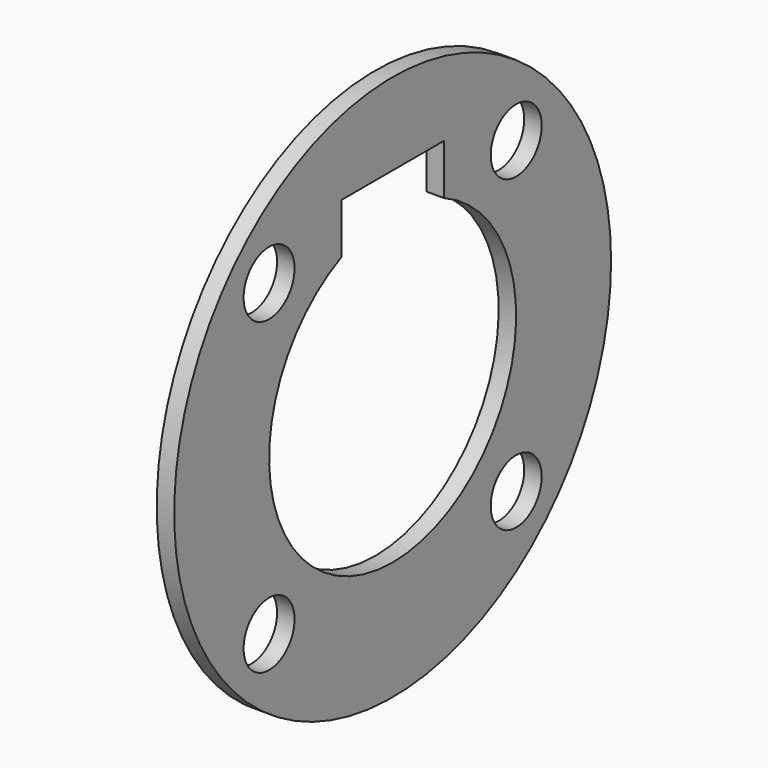
from build123d import *

# Parameters (mm, degrees)
F0_R     = 47.625
F0_R_2   = 5.55625
F1_DEPTH = 3.048


with BuildPart() as f1:
    # F0 (on Right) → F1 (new body)
    with BuildSketch(Plane.YZ):
        Circle(F0_R)
        with Locations((-26.9407683632, -26.9407683632)):
            Circle(F0_R_2, mode=Mode.SUBTRACT)
        with Locations((26.9407683632, -26.9407683632)):
            Circle(F0_R_2, mode=Mode.SUBTRACT)
        with Locations((-26.9407683632, 26.9407683632)):
            Circle(F0_R_2, mode=Mode.SUBTRACT)
        with BuildLine():
            ThreePointArc((11.176, 24.4948729329), (0, -26.924), (-11.176, 24.4948729329))
            Line((-11.176, 24.4948729329), (-11.176, 33.274))
            Line((-11.176, 33.274), (11.176, 33.274))
            Line((11.176, 33.274), (11.176, 24.4948729329))
        make_face(mode=Mode.SUBTRACT)
        with Locations((26.9407683632, 26.9407683632)):
            Circle(F0_R_2, mode=Mode.SUBTRACT)
    extrude(amount=F1_DEPTH)


solid = f1.part
